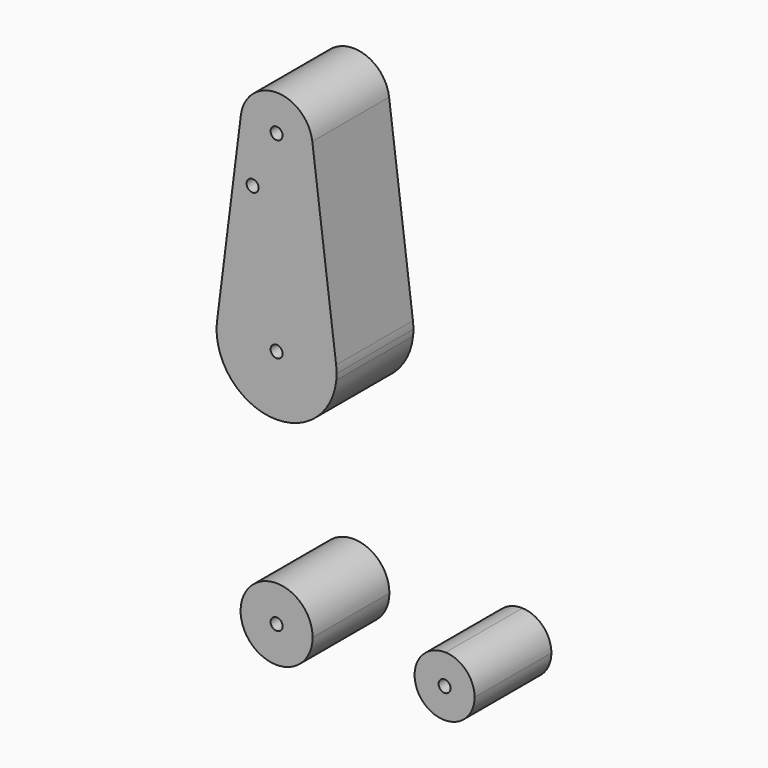
from build123d import *

# Parameters (mm, degrees)
F0_R     = 1.5875
F1_DEPTH = 25.4


with BuildPart() as f1:
    # F0 (on Front) → F1 (new body)
    with BuildSketch(Plane.XZ):
        with BuildLine():
            ThreePointArc((-9.450293, 115.490625), (-0.596483, 104.793695), (9.525, 114.3))
            ThreePointArc((9.525, 114.3), (9.506305, 114.896483), (9.450293, 115.490625))
            ThreePointArc((9.450293, 115.490625), (0, 123.825), (-9.450293, 115.490625))
        make_face()
        with Locations((0, 114.3)):
            Circle(F0_R, mode=Mode.SUBTRACT)
        with BuildLine():
            ThreePointArc((9.450293, 115.490625), (9.506305, 114.896483), (9.525, 114.3))
            ThreePointArc((9.525, 114.3), (-0.596483, 104.793695), (-9.450293, 115.490625))
            Line((-9.450293, 115.490625), (-15.750488, 65.484375))
            ThreePointArc((-15.750488, 65.484375), (0, 79.375), (15.750488, 65.484375))
            Line((15.750488, 65.484375), (9.450293, 115.490625))
        make_face()
        with Locations((-6.353402, 100.0252)):
            Circle(F0_R, mode=Mode.SUBTRACT)
        with BuildLine():
            ThreePointArc((0, -9.525), (0.338886, -9.51897), (0.677344, -9.500886))
            Line((0.677344, -9.500886), (0, -9.525))
        make_face()
        with BuildLine():
            Line((0, -9.525), (0.677344, -9.500886))
            ThreePointArc((0.677344, -9.500886), (6.970557, -6.491299), (9.525, 0))
            ThreePointArc((9.525, 0), (-6.735192, 6.735192), (0, -9.525))
        make_face()
        Circle(F0_R, mode=Mode.SUBTRACT)
        with BuildLine():
            ThreePointArc((52.3875, 0), (50.161633, 5.51191), (44.732405, 7.932475))
            ThreePointArc((44.732405, 7.932475), (36.5125, 0), (44.732405, -7.932475))
            ThreePointArc((44.732405, -7.932475), (50.161633, -5.51191), (52.3875, 0))
        make_face()
        with Locations((44.45, 0)):
            Circle(F0_R, mode=Mode.SUBTRACT)
        with BuildLine():
            ThreePointArc((15.875, 63.5), (15.843841, 64.494139), (15.750488, 65.484375))
            ThreePointArc((15.750488, 65.484375), (0, 79.375), (-15.750488, 65.484375))
            ThreePointArc((-15.750488, 65.484375), (-15.873744, 63.699705), (-15.795426, 61.9125))
            ThreePointArc((-15.795426, 61.9125), (-0.006091, 47.625001), (15.794203, 61.90038))
            ThreePointArc((15.794203, 61.90038), (15.854788, 62.699171), (15.875, 63.5))
        make_face()
        with Locations((0, 63.5)):
            Circle(F0_R, mode=Mode.SUBTRACT)
    extrude(amount=F1_DEPTH)


solid = f1.part
